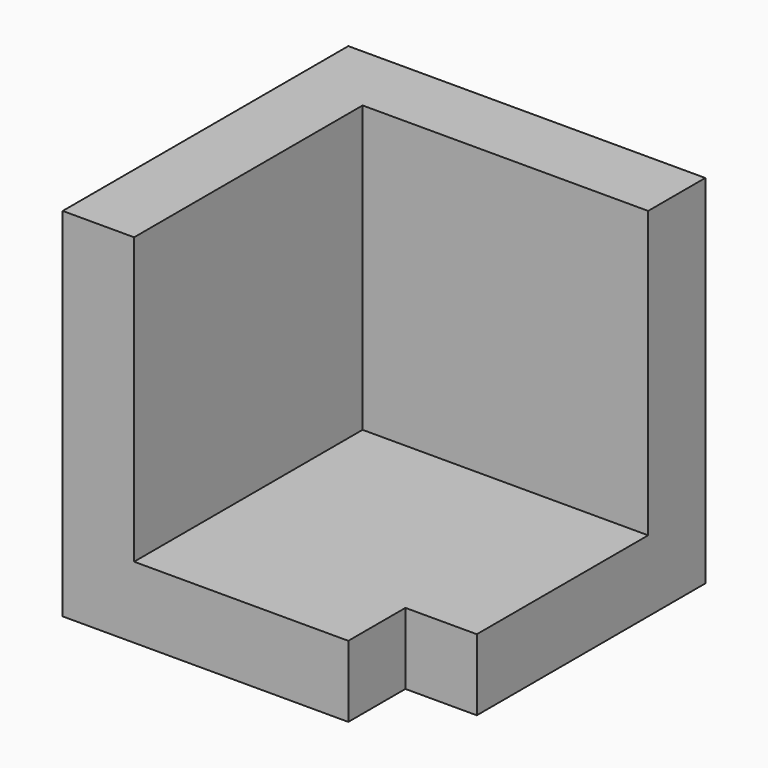
from build123d import *

# Parameters (mm, degrees)
F0_W     = 127
F0_H     = 127
F1_DEPTH = 25.4
F2_W     = 25.4
F2_H     = 127
F3_DEPTH = 101.6
F4_W     = 101.6
F4_H     = 25.4
F5_DEPTH = 101.6
F6_W     = 25.4
F6_H     = 25.4
F7_DEPTH = 25.4


with BuildPart() as f1:
    # F0 (on Top) → F1 (new body)
    with BuildSketch(Plane.XY):
        with Locations((7.114284, -3.634389)):
            Rectangle(F0_W, F0_H)
    extrude(amount=F1_DEPTH)

    # F2 (on face) → F3 (join)
    with BuildSketch(Plane.XY.offset(25.4)):
        with Locations((-43.685716, -3.634389)):
            Rectangle(F2_W, F2_H)
        with Locations((-43.685716, -3.634389)):
            Rectangle(F2_W, F2_H)
    extrude(amount=F3_DEPTH)

    # F4 (on face) → F5 (join)
    with BuildSketch(Plane.XY.offset(25.4)):
        with Locations((19.814284, 47.165611)):
            Rectangle(F4_W, F4_H)
    extrude(amount=F5_DEPTH)

    # F6 (on face) → F7 (cut)
    with BuildSketch(Plane.XY.offset(25.4)):
        with Locations((57.914284, -54.434389)):
            Rectangle(F6_W, F6_H)
    extrude(amount=-F7_DEPTH, mode=Mode.SUBTRACT)


solid = f1.part
